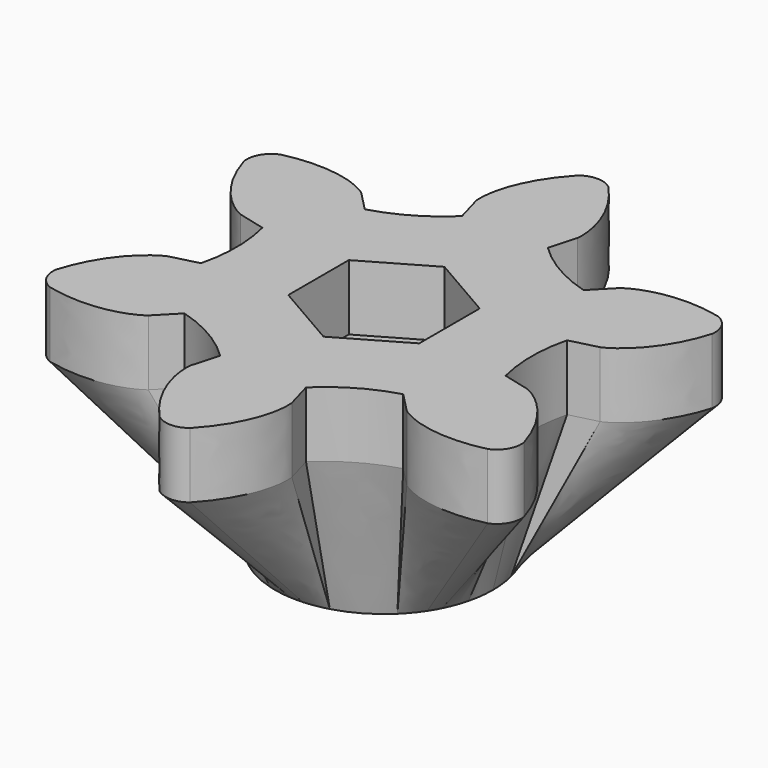
from build123d import *

# Parameters (mm, degrees)
SKETCH001_R       = 5
PAD_DEPTH         = 3
SKETCH_R          = 1.6
POCKET_DEPTH      = 7.001
POCKET_DEPTH_BACK = -3.001
POCKET001_DEPTH   = 3.001


with BuildPart() as part:
    # InvoluteGear (on DatumPlane) → AdditiveLoft section 0
    with BuildSketch(Plane.XY.offset(7)):
        with BuildLine():
            add(Edge.make_bspline(
                [(10.722233, -5.388222), (10.151728, -3.500837), (9.116877, -2.486568), (8.419015, -2.158172), (8.242431, -2.080483)],
                knots=[0, 0, 0, 0, 0, 1, 1, 1, 1, 1], degree=4))
            Line((8.242431, -2.080483), (6.981667, -1.759639))
            ThreePointArc((6.981667, -1.759639), (6.763334, 0), (6.981667, 1.759639))
            Line((6.981667, 1.759639), (8.242431, 2.080483))
            add(Edge.make_bspline(
                [(8.242431, 2.080483), (8.419015, 2.158172), (9.116877, 2.486568), (10.151728, 3.500837), (10.722233, 5.388222)],
                knots=[0, 0, 0, 0, 0, 1, 1, 1, 1, 1], degree=4))
            ThreePointArc((10.722233, 5.388222), (10.582845, 6.110008), (10.027454, 6.591615))
            add(Edge.make_bspline(
                [(10.027454, 6.591615), (8.107678, 7.041236), (6.711869, 6.652163), (6.078539, 6.211995), (5.922966, 6.097913)],
                knots=[0, 0, 0, 0, 0, 1, 1, 1, 1, 1], degree=4))
            Line((5.922966, 6.097913), (5.014725, 5.166481))
            ThreePointArc((5.014725, 5.166481), (3.381667, 5.857219), (1.966941, 6.92612))
            Line((1.966941, 6.92612), (2.319465, 8.178396))
            add(Edge.make_bspline(
                [(2.319465, 8.178396), (2.340476, 8.370167), (2.405008, 9.138731), (2.044051, 10.542073), (0.694779, 11.979837)],
                knots=[0, 0, 0, 0, 0, 1, 1, 1, 1, 1], degree=4))
            ThreePointArc((0.694779, 11.979837), (0, 12.220017), (-0.694779, 11.979837))
            add(Edge.make_bspline(
                [(-0.694779, 11.979837), (-2.044051, 10.542073), (-2.405008, 9.138731), (-2.340476, 8.370167), (-2.319465, 8.178396)],
                knots=[0, 0, 0, 0, 0, 1, 1, 1, 1, 1], degree=4))
            Line((-2.319465, 8.178396), (-1.966941, 6.92612))
            ThreePointArc((-1.966941, 6.92612), (-3.381667, 5.857219), (-5.014725, 5.166481))
            Line((-5.014725, 5.166481), (-5.922966, 6.097913))
            add(Edge.make_bspline(
                [(-5.922966, 6.097913), (-6.078539, 6.211995), (-6.711869, 6.652163), (-8.107678, 7.041236), (-10.027454, 6.591615)],
                knots=[0, 0, 0, 0, 0, 1, 1, 1, 1, 1], degree=4))
            ThreePointArc((-10.027454, 6.591615), (-10.582845, 6.110008), (-10.722233, 5.388222))
            add(Edge.make_bspline(
                [(-10.722233, 5.388222), (-10.151728, 3.500837), (-9.116877, 2.486568), (-8.419015, 2.158172), (-8.242431, 2.080483)],
                knots=[0, 0, 0, 0, 0, 1, 1, 1, 1, 1], degree=4))
            Line((-8.242431, 2.080483), (-6.981667, 1.759639))
            ThreePointArc((-6.981667, 1.759639), (-6.763334, 0), (-6.981667, -1.759639))
            Line((-6.981667, -1.759639), (-8.242431, -2.080483))
            add(Edge.make_bspline(
                [(-8.242431, -2.080483), (-8.419015, -2.158172), (-9.116877, -2.486568), (-10.151728, -3.500837), (-10.722233, -5.388222)],
                knots=[0, 0, 0, 0, 0, 1, 1, 1, 1, 1], degree=4))
            ThreePointArc((-10.722233, -5.388222), (-10.582845, -6.110008), (-10.027454, -6.591615))
            add(Edge.make_bspline(
                [(-10.027454, -6.591615), (-8.107678, -7.041236), (-6.711869, -6.652163), (-6.078539, -6.211995), (-5.922966, -6.097913)],
                knots=[0, 0, 0, 0, 0, 1, 1, 1, 1, 1], degree=4))
            Line((-5.922966, -6.097913), (-5.014725, -5.166481))
            ThreePointArc((-5.014725, -5.166481), (-3.381667, -5.857219), (-1.966941, -6.92612))
            Line((-1.966941, -6.92612), (-2.319465, -8.178396))
            add(Edge.make_bspline(
                [(-2.319465, -8.178396), (-2.340476, -8.370167), (-2.405008, -9.138731), (-2.044051, -10.542073), (-0.694779, -11.979837)],
                knots=[0, 0, 0, 0, 0, 1, 1, 1, 1, 1], degree=4))
            ThreePointArc((-0.694779, -11.979837), (0, -12.220017), (0.694779, -11.979837))
            add(Edge.make_bspline(
                [(0.694779, -11.979837), (2.044051, -10.542073), (2.405008, -9.138731), (2.340476, -8.370167), (2.319465, -8.178396)],
                knots=[0, 0, 0, 0, 0, 1, 1, 1, 1, 1], degree=4))
            Line((2.319465, -8.178396), (1.966941, -6.92612))
            ThreePointArc((1.966941, -6.92612), (3.381667, -5.857219), (5.014725, -5.166481))
            Line((5.014725, -5.166481), (5.922966, -6.097913))
            add(Edge.make_bspline(
                [(5.922966, -6.097913), (6.078539, -6.211995), (6.711869, -6.652163), (8.107678, -7.041236), (10.027454, -6.591615)],
                knots=[0, 0, 0, 0, 0, 1, 1, 1, 1, 1], degree=4))
            ThreePointArc((10.027454, -6.591615), (10.582845, -6.110008), (10.722233, -5.388222))
        make_face()
    # Sketch001 → AdditiveLoft section 1
    with BuildSketch(Plane.XY):
        Circle(SKETCH001_R)
    loft()

    # InvoluteGear (on DatumPlane) → Pad (new body)
    with BuildSketch(Plane.XY.offset(7)):
        with BuildLine():
            add(Edge.make_bspline(
                [(10.722233, -5.388222), (10.151728, -3.500837), (9.116877, -2.486568), (8.419015, -2.158172), (8.242431, -2.080483)],
                knots=[0, 0, 0, 0, 0, 1, 1, 1, 1, 1], degree=4))
            Line((8.242431, -2.080483), (6.981667, -1.759639))
            ThreePointArc((6.981667, -1.759639), (6.763334, 0), (6.981667, 1.759639))
            Line((6.981667, 1.759639), (8.242431, 2.080483))
            add(Edge.make_bspline(
                [(8.242431, 2.080483), (8.419015, 2.158172), (9.116877, 2.486568), (10.151728, 3.500837), (10.722233, 5.388222)],
                knots=[0, 0, 0, 0, 0, 1, 1, 1, 1, 1], degree=4))
            ThreePointArc((10.722233, 5.388222), (10.582845, 6.110008), (10.027454, 6.591615))
            add(Edge.make_bspline(
                [(10.027454, 6.591615), (8.107678, 7.041236), (6.711869, 6.652163), (6.078539, 6.211995), (5.922966, 6.097913)],
                knots=[0, 0, 0, 0, 0, 1, 1, 1, 1, 1], degree=4))
            Line((5.922966, 6.097913), (5.014725, 5.166481))
            ThreePointArc((5.014725, 5.166481), (3.381667, 5.857219), (1.966941, 6.92612))
            Line((1.966941, 6.92612), (2.319465, 8.178396))
            add(Edge.make_bspline(
                [(2.319465, 8.178396), (2.340476, 8.370167), (2.405008, 9.138731), (2.044051, 10.542073), (0.694779, 11.979837)],
                knots=[0, 0, 0, 0, 0, 1, 1, 1, 1, 1], degree=4))
            ThreePointArc((0.694779, 11.979837), (0, 12.220017), (-0.694779, 11.979837))
            add(Edge.make_bspline(
                [(-0.694779, 11.979837), (-2.044051, 10.542073), (-2.405008, 9.138731), (-2.340476, 8.370167), (-2.319465, 8.178396)],
                knots=[0, 0, 0, 0, 0, 1, 1, 1, 1, 1], degree=4))
            Line((-2.319465, 8.178396), (-1.966941, 6.92612))
            ThreePointArc((-1.966941, 6.92612), (-3.381667, 5.857219), (-5.014725, 5.166481))
            Line((-5.014725, 5.166481), (-5.922966, 6.097913))
            add(Edge.make_bspline(
                [(-5.922966, 6.097913), (-6.078539, 6.211995), (-6.711869, 6.652163), (-8.107678, 7.041236), (-10.027454, 6.591615)],
                knots=[0, 0, 0, 0, 0, 1, 1, 1, 1, 1], degree=4))
            ThreePointArc((-10.027454, 6.591615), (-10.582845, 6.110008), (-10.722233, 5.388222))
            add(Edge.make_bspline(
                [(-10.722233, 5.388222), (-10.151728, 3.500837), (-9.116877, 2.486568), (-8.419015, 2.158172), (-8.242431, 2.080483)],
                knots=[0, 0, 0, 0, 0, 1, 1, 1, 1, 1], degree=4))
            Line((-8.242431, 2.080483), (-6.981667, 1.759639))
            ThreePointArc((-6.981667, 1.759639), (-6.763334, 0), (-6.981667, -1.759639))
            Line((-6.981667, -1.759639), (-8.242431, -2.080483))
            add(Edge.make_bspline(
                [(-8.242431, -2.080483), (-8.419015, -2.158172), (-9.116877, -2.486568), (-10.151728, -3.500837), (-10.722233, -5.388222)],
                knots=[0, 0, 0, 0, 0, 1, 1, 1, 1, 1], degree=4))
            ThreePointArc((-10.722233, -5.388222), (-10.582845, -6.110008), (-10.027454, -6.591615))
            add(Edge.make_bspline(
                [(-10.027454, -6.591615), (-8.107678, -7.041236), (-6.711869, -6.652163), (-6.078539, -6.211995), (-5.922966, -6.097913)],
                knots=[0, 0, 0, 0, 0, 1, 1, 1, 1, 1], degree=4))
            Line((-5.922966, -6.097913), (-5.014725, -5.166481))
            ThreePointArc((-5.014725, -5.166481), (-3.381667, -5.857219), (-1.966941, -6.92612))
            Line((-1.966941, -6.92612), (-2.319465, -8.178396))
            add(Edge.make_bspline(
                [(-2.319465, -8.178396), (-2.340476, -8.370167), (-2.405008, -9.138731), (-2.044051, -10.542073), (-0.694779, -11.979837)],
                knots=[0, 0, 0, 0, 0, 1, 1, 1, 1, 1], degree=4))
            ThreePointArc((-0.694779, -11.979837), (0, -12.220017), (0.694779, -11.979837))
            add(Edge.make_bspline(
                [(0.694779, -11.979837), (2.044051, -10.542073), (2.405008, -9.138731), (2.340476, -8.370167), (2.319465, -8.178396)],
                knots=[0, 0, 0, 0, 0, 1, 1, 1, 1, 1], degree=4))
            Line((2.319465, -8.178396), (1.966941, -6.92612))
            ThreePointArc((1.966941, -6.92612), (3.381667, -5.857219), (5.014725, -5.166481))
            Line((5.014725, -5.166481), (5.922966, -6.097913))
            add(Edge.make_bspline(
                [(5.922966, -6.097913), (6.078539, -6.211995), (6.711869, -6.652163), (8.107678, -7.041236), (10.027454, -6.591615)],
                knots=[0, 0, 0, 0, 0, 1, 1, 1, 1, 1], degree=4))
            ThreePointArc((10.027454, -6.591615), (10.582845, -6.110008), (10.722233, -5.388222))
        make_face()
    extrude(amount=PAD_DEPTH)

    # Sketch (on DatumPlane) → Pocket (cut, two sides)
    with BuildSketch(Plane.XY.offset(7)) as pocket_sk:
        Circle(SKETCH_R)
    extrude(amount=-POCKET_DEPTH, mode=Mode.SUBTRACT)
    extrude(pocket_sk.sketch, amount=-POCKET_DEPTH_BACK, mode=Mode.SUBTRACT)

    # Sketch002 (on DatumPlane) → Pocket001 (cut, through all)
    with BuildSketch(Plane.XY.offset(7)):
        Polygon((3, -1.732051), (3, 1.732051), (0, 3.464102), (-3, 1.732051), (-3, -1.732051), (0, -3.464102), align=None)
    extrude(amount=POCKET001_DEPTH, mode=Mode.SUBTRACT)


solid = part.part
